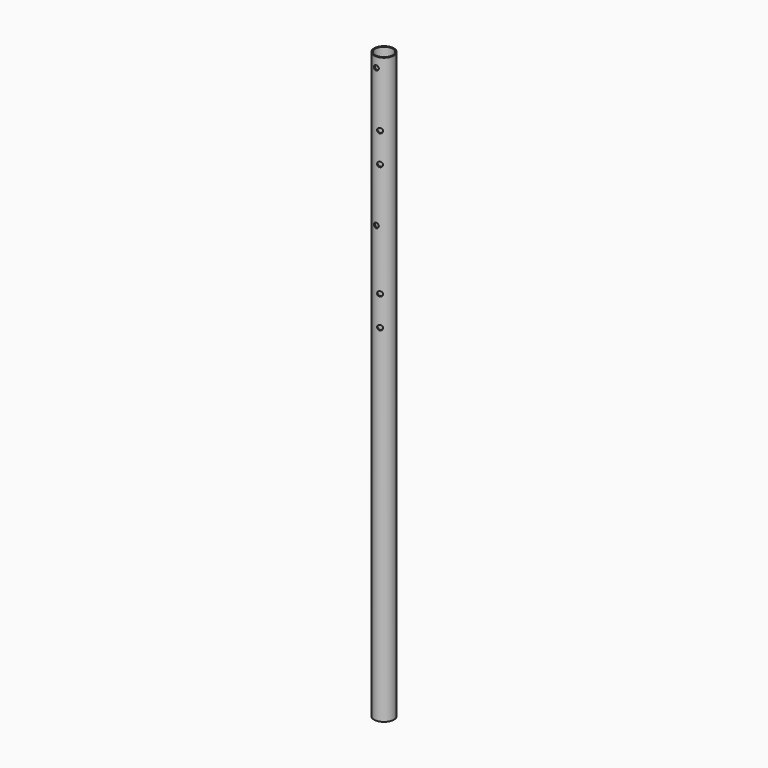
from build123d import *

# Parameters (mm, degrees)
F0_R     = 12.7
F0_R_2   = 11.2
F1_DEPTH = 749.3
F2_R     = 3.175
F3_DEPTH = 12.7
F6_R     = 3.175
F7_DEPTH = 12.7


with BuildPart() as f1:
    # F0 (on Top) → F1 (new body)
    with BuildSketch(Plane.XY):
        Circle(F0_R)
        Circle(F0_R_2, mode=Mode.SUBTRACT)
    extrude(amount=F1_DEPTH)

    # F2 (on Front) → F3 (cut, symmetric)
    with BuildSketch(Plane.XZ):
        with Locations((0, 558.8)):
            Circle(F2_R)
        with Locations((0, 736.6)):
            Circle(F2_R)
    extrude(amount=F3_DEPTH, both=True, mode=Mode.SUBTRACT)

    # F6 (on face) → F7 (cut, symmetric)
    with BuildSketch(Plane(origin=(0, 0, 0), x_dir=(0.939693, 0.34202, 0), z_dir=(0.34202, -0.939693, 0))):
        with Locations((0, 628.65)):
            Circle(F6_R)
        with Locations((0, 666.75)):
            Circle(F6_R)
        with Locations((0, 444.5)):
            Circle(F6_R)
        with Locations((0, 482.6)):
            Circle(F6_R)
    extrude(amount=F7_DEPTH, both=True, mode=Mode.SUBTRACT)


solid = f1.part
